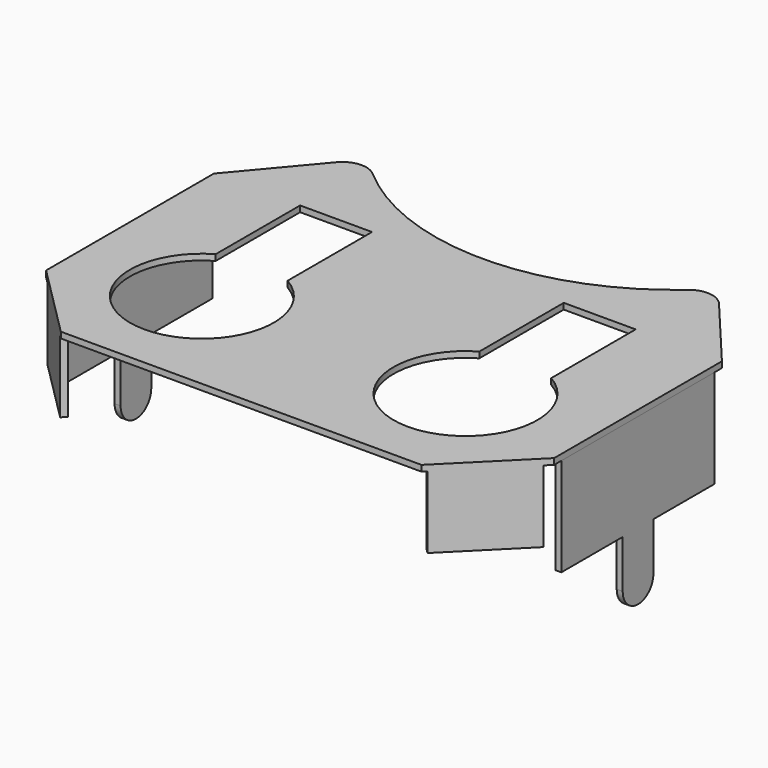
from build123d import *

# Parameters (mm, degrees)
PAD_DEPTH    = 0.25
SKETCH001_W  = 3.8
SKETCH001_H  = 3
PAD001_DEPTH = 0.25
SKETCH002_W  = 3.8
SKETCH002_H  = 3
PAD002_DEPTH = 0.25
PAD005_DEPTH = 0.25
PAD006_DEPTH = 0.25


with BuildPart() as pad005:
    # Sketch → Pad (new body)
    with BuildSketch(Plane.XY):
        with BuildLine():
            Line((10.6, -4.375), (10.6, 4.375))
            Line((10.6, 4.375), (7.983866, 7.492788))
            ThreePointArc((7.983866, 7.492788), (7.29621, 7.846923), (6.561656, 7.604617))
            ThreePointArc((-6.561656, 7.604617), (0, 5.150787), (6.561656, 7.604617))
            ThreePointArc((-6.561656, 7.604617), (-7.296205, 7.846923), (-7.983859, 7.492796))
            Line((-10.6, 4.375), (-7.983859, 7.492796))
            Line((-10.6, -4.375), (-10.6, 4.375))
            Line((-7.525, -7.45), (-10.6, -4.375))
            Line((7.525, -7.45), (-7.525, -7.45))
            Line((10.6, -4.375), (7.525, -7.45))
        make_face()
        with BuildLine():
            Line((4, 4.375), (4, -0.026924))
            ThreePointArc((4, -0.026924), (5.5, -5.625), (7, -0.026924))
            Line((7, 4.375), (7, -0.026924))
            Line((7, 4.375), (4, 4.375))
        make_face(mode=Mode.SUBTRACT)
        with BuildLine():
            Line((-7, 4.375), (-7, -0.026924))
            ThreePointArc((-7, -0.026924), (-5.5, -5.625), (-4, -0.026924))
            Line((-4, 4.375), (-4, -0.026924))
            Line((-4, 4.375), (-7, 4.375))
        make_face(mode=Mode.SUBTRACT)
    extrude(amount=PAD_DEPTH)

    # Sketch001 → Pad001 (new body)
    with BuildSketch(Plane(origin=(7.4875, -7.4875, 0), x_dir=(0.707107, 0.707107, 0), z_dir=(0.707107, -0.707107, 0))):
        with Locations((2.15, -1.5)):
            Rectangle(SKETCH001_W, SKETCH001_H)
    extrude(amount=-PAD001_DEPTH)

    # Sketch002 → Pad002 (new body)
    with BuildSketch(Plane(origin=(-7.4875, -7.4875, 0), x_dir=(0.707107, -0.707107, 0), z_dir=(-0.707107, -0.707107, 0))):
        with Locations((-2.15, -1.5)):
            Rectangle(SKETCH002_W, SKETCH002_H)
    extrude(amount=-PAD002_DEPTH)

    # Sketch003 → Pad005 (new body)
    with BuildSketch(Plane(origin=(-10.6, 0, 0), x_dir=(0, -1, 0), z_dir=(-1, 0, 0))):
        with BuildLine():
            Line((-4, 0), (4, 0))
            Line((4, 0), (4, -4.1))
            Line((4, -4.1), (0.8, -4.1))
            Line((0.8, -6.1), (0.8, -4.1))
            ThreePointArc((-0.8, -6.1), (0, -6.9), (0.8, -6.1))
            Line((-0.8, -6.1), (-0.8, -4.1))
            Line((-0.8, -4.1), (-4, -4.1))
            Line((-4, -4.1), (-4, 0))
        make_face()
    extrude(amount=-PAD005_DEPTH)


with BuildPart() as pad006:
    # Sketch004 → Pad006 (new body)
    with BuildSketch(Plane.YZ.offset(10.6)):
        with BuildLine():
            Line((4, 0), (-4, 0))
            Line((-4, 0), (-4, -4.1))
            Line((-4, -4.1), (-0.8, -4.1))
            Line((-0.8, -6.1), (-0.8, -4.1))
            ThreePointArc((-0.8, -6.1), (0, -6.9), (0.8, -6.1))
            Line((0.8, -4.1), (0.8, -6.1))
            Line((0.8, -4.1), (4, -4.1))
            Line((4, -4.1), (4, 0))
        make_face()
    extrude(amount=-PAD006_DEPTH)


solid = Compound([pad005.part, pad006.part])
